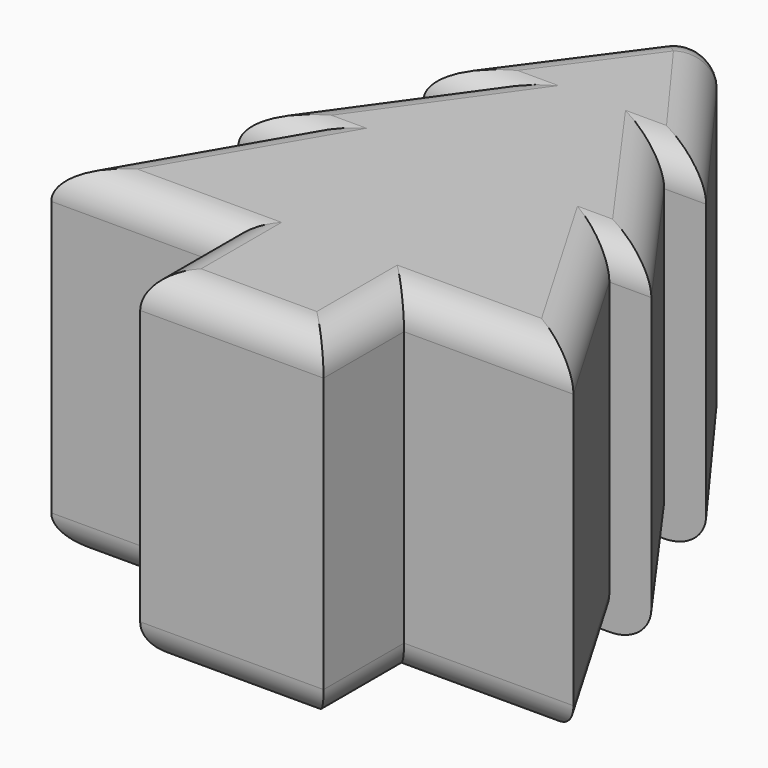
from build123d import *

# Parameters (mm, degrees)
F1_DEPTH = 10.1
F2_W     = 6.35
F2_H     = 1.778
F3_DEPTH = 4.318
F4_DEPTH = 7
F6_R     = 1


with BuildPart() as f1:
    # F0 (on Top) → F1 (new body)
    with BuildSketch(Plane.XY):
        Polygon((-2.708949, 0), (0, 0), (2.708949, 0), (2.708949, 2.971315), (7.713426, 2.971315), (4.857096, 7.86788), (6.097892, 7.86788), (2.933446, 12.298105), (4.174241, 12.298105), (0, 18), (-4.174241, 12.298105), (-2.933446, 12.298105), (-6.097892, 7.86788), (-4.857096, 7.86788), (-7.713426, 2.971315), (-2.708949, 2.971315), align=None)
    extrude(amount=F1_DEPTH)

    # F2 (on face) → F3 (cut)
    with BuildSketch(Plane(origin=(0, 0, 0), x_dir=(1, 0, 0), z_dir=(0, 0, -1))):
        with Locations((0, -5.889)):
            Rectangle(F2_W, F2_H)
    extrude(amount=-F3_DEPTH, mode=Mode.SUBTRACT)

    # F2 (on face) → F4 (cut)
    with BuildSketch(Plane(origin=(0, 0, 0), x_dir=(1, 0, 0), z_dir=(0, 0, -1))):
        with Locations((0, -5.889)):
            Rectangle(F2_W, F2_H)
    extrude(amount=-F4_DEPTH, mode=Mode.SUBTRACT)

    # F6
    f6_edges = [f1.edges().sort_by_distance(p)[0] for p in [
        (0, 18, 5.05),
        (-6.285261, 5.419597, 10.1),
        (-5.211187, 2.971315, 10.1),
        (-2.708949, 1.485657, 10.1),
        (0, 0, 10.1),
        (2.708949, 1.485657, 10.1),
        (5.211187, 2.971315, 10.1),
        (6.285261, 5.419597, 10.1),
        (5.477494, 7.86788, 10.1),
        (4.515669, 10.082993, 10.1),
        (3.553843, 12.298105, 10.1),
        (2.087121, 15.149053, 10.1),
        (-2.087121, 15.149053, 10.1),
        (-3.553843, 12.298105, 10.1),
        (-4.515669, 10.082993, 10.1),
        (-5.477494, 7.86788, 10.1),
        (4.515669, 10.082993, 0),
        (2.087121, 15.149053, 0),
        (-2.087121, 15.149053, 0),
        (-4.515669, 10.082993, 0),
        (-3.553843, 12.298105, 0),
        (-6.285261, 5.419597, 0),
        (-5.477494, 7.86788, 0),
        (-5.211187, 2.971315, 0),
        (-2.708949, 1.485657, 0),
        (0, 0, 0),
        (2.708949, 1.485657, 0),
        (5.211187, 2.971315, 0),
        (6.285261, 5.419597, 0),
    ]]
    fillet(f6_edges, radius=F6_R)


solid = f1.part
